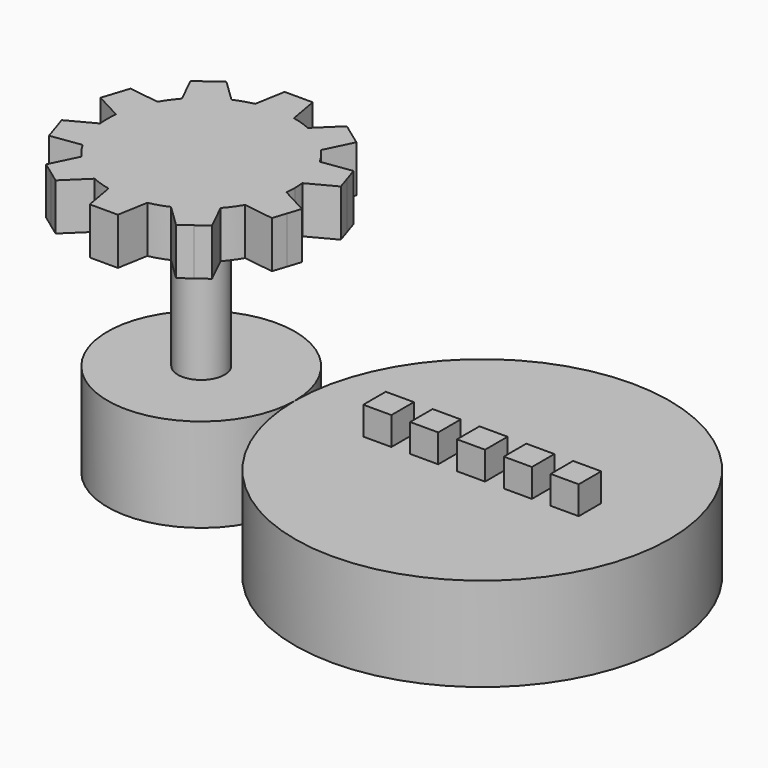
from build123d import *

# Parameters (mm, degrees)
F0_R          = 10
F1_DEPTH      = 10
F2_R          = 2.5
F3_DEPTH      = 15
F3_DEPTH_BACK = 5
F5_DEPTH      = 5
F7_W          = 3
F7_H          = 3
F8_DEPTH      = 1
F9_DEPTH      = 3


with BuildPart() as f1:
    # F0 (on Top) → F1 (new body)
    with BuildSketch(Plane.XY):
        with BuildLine():
            ThreePointArc((-20, 0), (0, -20), (20, 0))
            ThreePointArc((20, 0), (0, 20), (-20, 0))
        make_face()
        with Locations((-30, 0)):
            Circle(F0_R)
    extrude(amount=F1_DEPTH)


with BuildPart() as f3:
    # F2 (on face) → F3 (new body, two sides)
    with BuildSketch(Plane.XY.offset(10)) as f3_sk:
        with Locations((-30, 0)):
            Circle(F2_R)
    extrude(amount=F3_DEPTH)
    extrude(f3_sk.sketch, amount=-F3_DEPTH_BACK)


with BuildPart() as f5:
    # F4 (on face) → F5 (new body)
    with BuildSketch(Plane.XY.offset(25)):
        with BuildLine():
            ThreePointArc((-20.056077, -1.057539), (-20.014029, -0.529512), (-20, 0))
            ThreePointArc((-20, 0), (-20.014029, 0.529512), (-20.056077, 1.057539))
            ThreePointArc((-20.056077, 1.057539), (-20.489435, 3.09017), (-21.333591, 4.989325))
            ThreePointArc((-21.333591, 4.989325), (-21.90983, 5.877853), (-22.576803, 6.700458))
            ThreePointArc((-22.576803, 6.700458), (-24.122147, 8.09017), (-25.92138, 9.130436))
            ThreePointArc((-25.92138, 9.130436), (-26.90983, 9.510565), (-27.932938, 9.784031))
            ThreePointArc((-27.932938, 9.784031), (-30, 10), (-32.067062, 9.784031))
            ThreePointArc((-32.067062, 9.784031), (-33.09017, 9.510565), (-34.07862, 9.130436))
            ThreePointArc((-34.07862, 9.130436), (-35.877853, 8.09017), (-37.423197, 6.700458))
            ThreePointArc((-37.423197, 6.700458), (-38.09017, 5.877853), (-38.666409, 4.989325))
            ThreePointArc((-38.666409, 4.989325), (-39.510565, 3.09017), (-39.943923, 1.057539))
            ThreePointArc((-39.943923, 1.057539), (-40, 0), (-39.943923, -1.057539))
            ThreePointArc((-39.943923, -1.057539), (-39.510565, -3.09017), (-38.666409, -4.989325))
            ThreePointArc((-38.666409, -4.989325), (-38.09017, -5.877853), (-37.423197, -6.700458))
            ThreePointArc((-37.423197, -6.700458), (-35.877853, -8.09017), (-34.07862, -9.130436))
            ThreePointArc((-34.07862, -9.130436), (-33.09017, -9.510565), (-32.067062, -9.784031))
            ThreePointArc((-32.067062, -9.784031), (-30, -10), (-27.932938, -9.784031))
            ThreePointArc((-27.932938, -9.784031), (-26.90983, -9.510565), (-25.92138, -9.130436))
            ThreePointArc((-25.92138, -9.130436), (-24.122147, -8.09017), (-22.576803, -6.700458))
            ThreePointArc((-22.576803, -6.700458), (-21.90983, -5.877853), (-21.333591, -4.989325))
            ThreePointArc((-21.333591, -4.989325), (-20.489435, -3.09017), (-20.056077, -1.057539))
        make_face()
        with BuildLine():
            ThreePointArc((-21.333591, 4.989325), (-20.489435, 3.09017), (-20.056077, 1.057539))
            Line((-20.056077, 1.057539), (-17.17274, 2.590636))
            Line((-17.17274, 2.590636), (-17.636265, 4.017221))
            Line((-17.636265, 4.017221), (-18.099791, 5.443806))
            Line((-18.099791, 5.443806), (-21.333591, 4.989325))
        make_face()
        with BuildLine():
            Line((-17.17274, -2.590636), (-20.056077, -1.057539))
            ThreePointArc((-20.056077, -1.057539), (-20.489435, -3.09017), (-21.333591, -4.989325))
            Line((-21.333591, -4.989325), (-18.099791, -5.443806))
            Line((-18.099791, -5.443806), (-17.636265, -4.017221))
            Line((-17.636265, -4.017221), (-17.17274, -2.590636))
        make_face()
        with BuildLine():
            ThreePointArc((-25.92138, 9.130436), (-24.122147, 8.09017), (-22.576803, 6.700458))
            Line((-22.576803, 6.700458), (-21.145266, 9.635543))
            Line((-21.145266, 9.635543), (-22.358792, 10.517221))
            Line((-22.358792, 10.517221), (-23.572317, 11.398899))
            Line((-23.572317, 11.398899), (-25.92138, 9.130436))
        make_face()
        with BuildLine():
            Line((-21.145266, -9.635543), (-22.576803, -6.700458))
            ThreePointArc((-22.576803, -6.700458), (-24.122147, -8.09017), (-25.92138, -9.130436))
            Line((-25.92138, -9.130436), (-23.572317, -11.398899))
            Line((-23.572317, -11.398899), (-22.358792, -10.517221))
            Line((-22.358792, -10.517221), (-21.145266, -9.635543))
        make_face()
        with BuildLine():
            ThreePointArc((-32.067062, 9.784031), (-30, 10), (-27.932938, 9.784031))
            Line((-27.932938, 9.784031), (-28.5, 13))
            Line((-28.5, 13), (-30, 13))
            Line((-30, 13), (-31.5, 13))
            Line((-31.5, 13), (-32.067062, 9.784031))
        make_face()
        with BuildLine():
            Line((-28.5, -13), (-27.932938, -9.784031))
            ThreePointArc((-27.932938, -9.784031), (-30, -10), (-32.067062, -9.784031))
            Line((-32.067062, -9.784031), (-31.5, -13))
            Line((-31.5, -13), (-30, -13))
            Line((-30, -13), (-28.5, -13))
        make_face()
        with BuildLine():
            ThreePointArc((-37.423197, 6.700458), (-35.877853, 8.09017), (-34.07862, 9.130436))
            Line((-34.07862, 9.130436), (-36.427683, 11.398899))
            Line((-36.427683, 11.398899), (-37.641208, 10.517221))
            Line((-37.641208, 10.517221), (-38.854734, 9.635543))
            Line((-38.854734, 9.635543), (-37.423197, 6.700458))
        make_face()
        with BuildLine():
            Line((-36.427683, -11.398899), (-34.07862, -9.130436))
            ThreePointArc((-34.07862, -9.130436), (-35.877853, -8.09017), (-37.423197, -6.700458))
            Line((-37.423197, -6.700458), (-38.854734, -9.635543))
            Line((-38.854734, -9.635543), (-37.641208, -10.517221))
            Line((-37.641208, -10.517221), (-36.427683, -11.398899))
        make_face()
        with BuildLine():
            ThreePointArc((-39.943923, 1.057539), (-39.510565, 3.09017), (-38.666409, 4.989325))
            Line((-38.666409, 4.989325), (-41.900209, 5.443806))
            Line((-41.900209, 5.443806), (-42.363735, 4.017221))
            Line((-42.363735, 4.017221), (-42.82726, 2.590636))
            Line((-42.82726, 2.590636), (-39.943923, 1.057539))
        make_face()
        with BuildLine():
            Line((-41.900209, -5.443806), (-38.666409, -4.989325))
            ThreePointArc((-38.666409, -4.989325), (-39.510565, -3.09017), (-39.943923, -1.057539))
            Line((-39.943923, -1.057539), (-42.82726, -2.590636))
            Line((-42.82726, -2.590636), (-42.363735, -4.017221))
            Line((-42.363735, -4.017221), (-41.900209, -5.443806))
        make_face()
    extrude(amount=F5_DEPTH)


with BuildPart() as f1_1:
    add(f1.part)

    # F6: cut F3
    add(f3.part, mode=Mode.SUBTRACT)

    # F7 (on face) → F8 (cut)
    with BuildSketch(Plane.XY.offset(10)):
        Rectangle(F7_W, F7_H)
        with Locations((5, 0)):
            Rectangle(F7_W, F7_H)
        with Locations((10, 0)):
            Rectangle(F7_W, F7_H)
        with Locations((-5, 0)):
            Rectangle(F7_W, F7_H)
        with Locations((-10, 0)):
            Rectangle(F7_W, F7_H)
    extrude(amount=-F8_DEPTH, mode=Mode.SUBTRACT)


with BuildPart() as f9:
    # F7 (on face) → F9 (new body)
    with BuildSketch(Plane.XY.offset(10)):
        Rectangle(F7_W, F7_H)
        with Locations((5, 0)):
            Rectangle(F7_W, F7_H)
        with Locations((10, 0)):
            Rectangle(F7_W, F7_H)
        with Locations((-5, 0)):
            Rectangle(F7_W, F7_H)
        with Locations((-10, 0)):
            Rectangle(F7_W, F7_H)
    extrude(amount=F9_DEPTH)


solid = Compound([f3.part, f5.part, f1_1.part, f9.part])
